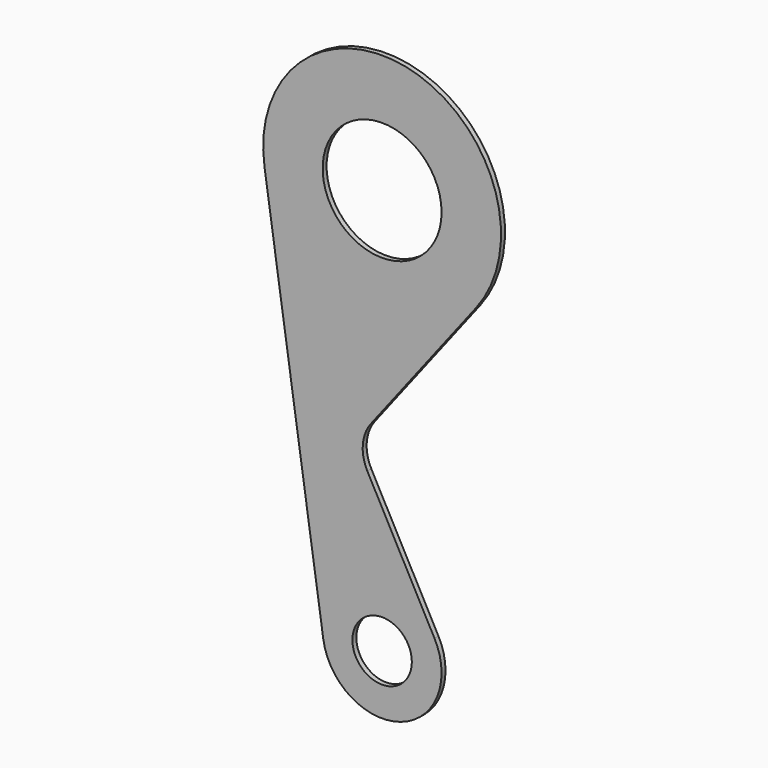
from build123d import *

# Parameters (mm, degrees)
F0_R     = 15
F0_R_2   = 30
F1_DEPTH = 2.5


with BuildPart() as f1:
    # F0 (on Front) → F1 (new body)
    with BuildSketch(Plane.XZ):
        with BuildLine():
            Line((-32.561399, 76.149625), (-2.885725, -124.026205))
            ThreePointArc((-2.885725, -124.026205), (36.209669, -148.109627), (53.237161, -105.465454))
            Line((53.237161, -105.465454), (19.352906, -42.184657))
            ThreePointArc((19.352906, -42.184657), (17.053182, -31.086216), (21.154569, -20.520102))
            Line((21.154569, -20.520102), (74.279384, 48.277464))
            ThreePointArc((74.279384, 48.277464), (41.935595, 143.005296), (-32.561399, 76.149625))
        make_face()
        with Locations((26.789949, -119.626845)):
            Circle(F0_R, mode=Mode.SUBTRACT)
        with Locations((26.789949, 84.948346)):
            Circle(F0_R_2, mode=Mode.SUBTRACT)
    extrude(amount=F1_DEPTH)


solid = f1.part
